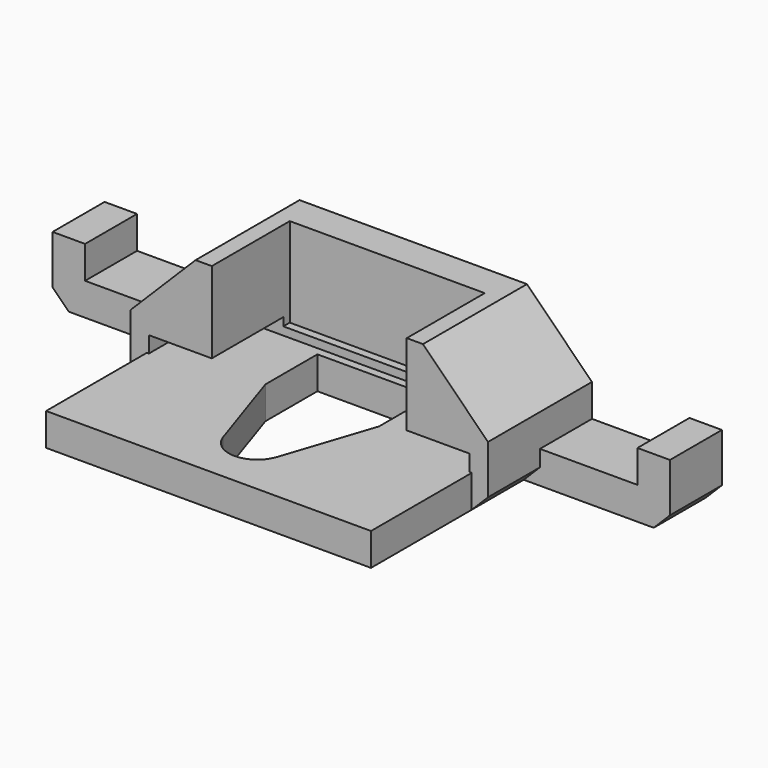
from build123d import *

# Parameters (mm, degrees)
PAD012_DEPTH    = 10
SKETCH042_W     = 8
SKETCH042_H     = 1.125
PAD013_DEPTH    = 8
SKETCH043_W     = 6
SKETCH043_H     = 12
POCKET028_DEPTH = 6
POCKET029_DEPTH = 5
CHAMFER027_SIZE = 1
CHAMFER028_SIZE = 4
PAD014_DEPTH    = 4
CHAMFER029_SIZE = 1


with BuildPart() as part:
    # Sketch041 → Pad012 (new body, symmetric)
    with BuildSketch(Plane.YZ):
        Polygon((-3.25, -21), (-3.25, -23), (12.5, -23), (12.5, -15), (4.5, -15), (4.5, -20), (10, -20), (10, -21), align=None)
    extrude(amount=PAD012_DEPTH, both=True)

    # Sketch042 → Pad013 (new body)
    with BuildSketch(Plane.YX.offset(23)):
        with Locations((8.5, 10.4375)):
            Rectangle(SKETCH042_W, SKETCH042_H)
    pad013 = extrude(amount=-PAD013_DEPTH)

    # Mirrored003: Pad013 across Sketch042 H_Axis
    add(pad013.mirror(Plane(origin=(0, 0, -23), x_dir=(0, 0, -1), z_dir=(1, 0, 0))))

    # Sketch043 → Pocket028 (cut)
    with BuildSketch(Plane(origin=(0, 4.5, 0), x_dir=(0, 0, -1), z_dir=(0, -1, 0))):
        with Locations((17.5, 0)):
            Rectangle(SKETCH043_W, SKETCH043_H)
    extrude(amount=-POCKET028_DEPTH, mode=Mode.SUBTRACT)

    # Sketch044 → Pocket029 (cut)
    with BuildSketch(Plane.YX.offset(23)):
        with BuildLine():
            Line((5.5, 3.5), (9.5, 3.5))
            Line((9.5, 3.5), (9.5, -3.5))
            Line((9.5, -3.5), (5.5, -3.5))
            Line((5.5, -3.5), (-0.050331, -1.661215))
            ThreePointArc((-0.050345, 1.661211), (-1.25, -7e-06), (-0.050331, -1.661215))
            Line((5.5, 3.5), (-0.050345, 1.661211))
        make_face()
    extrude(amount=-POCKET029_DEPTH, mode=Mode.SUBTRACT)

    # Chamfer027
    chamfer027_edges = [part.edges().sort_by_distance(p)[0] for p in [
        (11, 8.5, -23),
        (-11, 8.5, -23),
    ]]
    chamfer(chamfer027_edges, length=CHAMFER027_SIZE)

    # Chamfer028
    chamfer028_edges = [part.edges().sort_by_distance(p)[0] for p in [
        (-11, 8.5, -15),
        (11, 8.5, -15),
    ]]
    chamfer(chamfer028_edges, length=CHAMFER028_SIZE)

    # Sketch045 → Pad014 (new body)
    with BuildSketch(Plane.ZX.offset(12.5)):
        Polygon((-23, 9), (-21, 9), (-21, 17), (-19, 17), (-19, 19), (-23, 19), align=None)
    pad014 = extrude(amount=-PAD014_DEPTH)

    # Mirrored004: Pad014 across Sketch045 H_Axis
    add(pad014.mirror(Plane(origin=(0, 12.5, 0), x_dir=(0, 1, 0), z_dir=(1, 0, 0))))

    # Chamfer029
    chamfer029_edges = [part.edges().sort_by_distance(p)[0] for p in [
        (-19, 10.5, -23),
        (19, 10.5, -23),
    ]]
    chamfer(chamfer029_edges, length=CHAMFER029_SIZE)


solid = part.part
